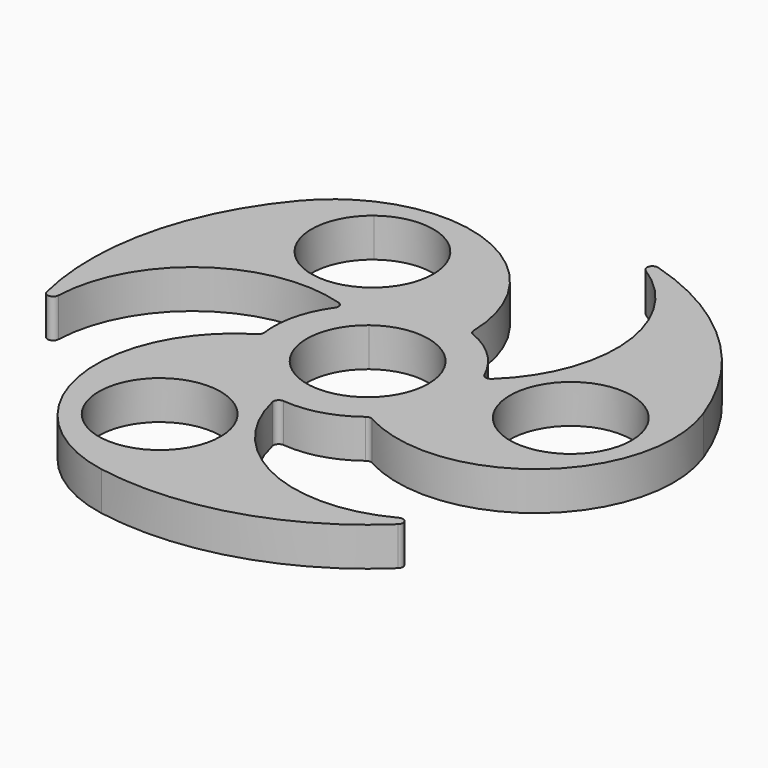
from build123d import *

# Parameters (mm, degrees)
F0_R     = 11
F1_DEPTH = 7


with BuildPart() as f1:
    # F0 (on Top) → F1 (new body)
    with BuildSketch(Plane.XY):
        with BuildLine():
            ThreePointArc((11, 0), (4.865176, 9.8656), (-6.696376, 8.726887))
            ThreePointArc((-6.696376, 8.726887), (-4.865176, -9.8656), (11, 0))
        make_face()
        with BuildLine():
            ThreePointArc((11.477612, -13.373157), (39.774286, -10.420459), (46.984631, 17.101007))
            ThreePointArc((46.984631, 17.101007), (34.235758, 36.440539), (14.13919, 47.959184))
            ThreePointArc((14.13919, 47.959184), (12.945113, 47.411758), (13.323468, 46.153846))
            ThreePointArc((13.323468, 46.153846), (24.888237, 27.361281), (17.063899, 6.729167))
            ThreePointArc((17.063899, 6.729167), (16.186493, 6.479167), (15.471268, 7.045556))
            ThreePointArc((15.471268, 7.045556), (11.794002, 12.243427), (6.462304, 15.723823))
            ThreePointArc((6.462304, 15.723823), (6.017988, 16.082822), (5.842688, 16.626483))
            ThreePointArc((5.842688, 16.626483), (-5.954265, 37.30276), (-29.716568, 38.727385))
            ThreePointArc((-29.716568, 38.727385), (-34.370147, 35.903524), (-38.302222, 32.13938))
            ThreePointArc((-38.302222, 32.13938), (-48.676311, 11.428767), (-48.603467, -11.734694))
            ThreePointArc((-48.603467, -11.734694), (-47.532344, -12.495082), (-46.632137, -11.538462))
            ThreePointArc((-46.632137, -11.538462), (-36.139683, 7.873205), (-14.359579, 11.413187))
            ThreePointArc((-14.359579, 11.413187), (-13.70437, 10.77833), (-13.837264, 9.875734))
            ThreePointArc((-13.837264, 9.875734), (-16.50012, 4.092192), (-16.848383, -2.265392))
            ThreePointArc((-16.848383, -2.265392), (-16.937126, -2.829681), (-17.3203, -3.253325))
            ThreePointArc((-17.3203, -3.253325), (-28.911526, -29.235313), (-8.682409, -49.240388))
            ThreePointArc((-8.682409, -49.240388), (14.440553, -47.869306), (34.464276, -36.22449))
            ThreePointArc((34.464276, -36.22449), (34.58723, -34.916676), (33.308669, -34.615385))
            ThreePointArc((33.308669, -34.615385), (11.251446, -35.234486), (-2.70432, -18.142353))
            ThreePointArc((-2.70432, -18.142353), (-2.482123, -17.257497), (-1.634004, -16.921289))
            ThreePointArc((-1.634004, -16.921289), (4.706118, -16.335619), (10.386078, -13.458431))
            ThreePointArc((10.386078, -13.458431), (10.919138, -13.253141), (11.477612, -13.373157))
        make_face()
        with Locations((-12.819895, -30.949964)):
            Circle(F0_R, mode=Mode.SUBTRACT)
        with BuildLine():
            ThreePointArc((-13.697132, 17.85045), (-29.120395, 19.880961), (-27.089884, 35.304224))
            ThreePointArc((-27.089884, 35.304224), (-15.528332, 36.442937), (-9.393508, 26.577337))
            ThreePointArc((-9.393508, 26.577337), (-10.527908, 21.712161), (-13.697132, 17.85045))
        make_face(mode=Mode.SUBTRACT)
        with BuildLine():
            ThreePointArc((11, 0), (-4.865176, -9.8656), (-6.696376, 8.726887))
            ThreePointArc((-6.696376, 8.726887), (4.865176, 9.8656), (11, 0))
        make_face(mode=Mode.SUBTRACT)
        with BuildLine():
            ThreePointArc((-0.036532, 16.999961), (-0.01832, 17.050504), (0, 17.101007))
            Line((0, 17.101007), (0, 17))
            ThreePointArc((0, 17), (-0.018266, 16.99999), (-0.036532, 16.999961))
        make_face(mode=Mode.SUBTRACT)
        with Locations((33.213403, 4.372627)):
            Circle(F0_R, mode=Mode.SUBTRACT)
    extrude(amount=F1_DEPTH)


solid = f1.part
